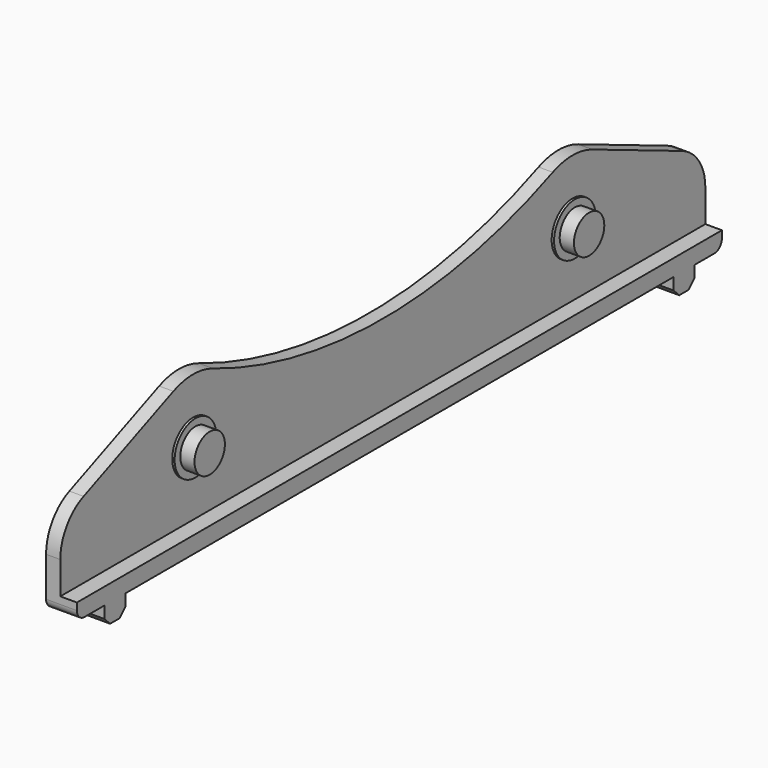
from build123d import *

# Parameters (mm, degrees)
F1_DEPTH = 3
F2_W     = 170
F2_H     = 3.5
F2_R     = 4
F3_DEPTH = 3.5
F4_R     = 5.5
F4_R_2   = 4
F5_DEPTH = 0.5
F6_R     = 2


with BuildPart() as f1:
    # F0 (on Right) → F1 (new body)
    with BuildSketch(Plane.YZ):
        with BuildLine():
            ThreePointArc((-78.857143, 19.568113), (-83.323804, 15.883977), (-85, 10.34193))
            Line((-85, 10.34193), (-85, 0))
            Line((-85, 0), (-77.75, 0))
            Line((-77.75, 0), (-72.25, 0))
            Line((-72.25, 0), (72.25, 0))
            Line((72.25, 0), (77.75, 0))
            Line((77.75, 0), (85, 0))
            Line((85, 0), (85, 10.34193))
            ThreePointArc((85, 10.34193), (83.323804, 15.883977), (78.857143, 19.568113))
            Line((78.857143, 19.568113), (55.207143, 29.455347))
            ThreePointArc((55.207143, 29.455347), (50, 30.5), (44.792857, 29.455347))
            ThreePointArc((44.792857, 29.455347), (0, 20.469036), (-44.792857, 29.455347))
            ThreePointArc((-44.792857, 29.455347), (-50, 30.5), (-55.207143, 29.455347))
            Line((-55.207143, 29.455347), (-78.857143, 19.568113))
        make_face()
        Polygon((-72.25, 0), (-77.75, 0), (-77.75, -2.5), (-76.25, -4), (-73.75, -4), (-72.25, -2.5), align=None)
        Polygon((77.75, 0), (72.25, 0), (72.25, -2.5), (73.75, -4), (76.25, -4), (77.75, -2.5), align=None)
    extrude(amount=-F1_DEPTH)

    # F2 (on face) + F0 (on Right) → F3 (join)
    with BuildSketch(Plane.YZ):
        with Locations((0, 1.75)):
            Rectangle(F2_W, F2_H)
        with Locations((-50, 17)):
            Circle(F2_R)
        with Locations((50, 17)):
            Circle(F2_R)
    with BuildSketch(Plane.YZ):
        Polygon((-72.25, 0), (-77.75, 0), (-77.75, -2.5), (-76.25, -4), (-73.75, -4), (-72.25, -2.5), align=None)
        Polygon((77.75, 0), (72.25, 0), (72.25, -2.5), (73.75, -4), (76.25, -4), (77.75, -2.5), align=None)
    extrude(amount=F3_DEPTH)

    # F4 (on Right) → F5 (join)
    with BuildSketch(Plane.YZ):
        with Locations((-50, 17)):
            Circle(F4_R)
        with Locations((-50, 17)):
            Circle(F4_R_2, mode=Mode.SUBTRACT)
        with Locations((50, 17)):
            Circle(F4_R)
        with Locations((50, 17)):
            Circle(F4_R_2, mode=Mode.SUBTRACT)
    extrude(amount=F5_DEPTH)

    # F6
    f6_edges = [f1.edges().sort_by_distance(p)[0] for p in [
        (0.25, -85, 0),
        (0.25, 85, 0),
    ]]
    fillet(f6_edges, radius=F6_R)


solid = f1.part
